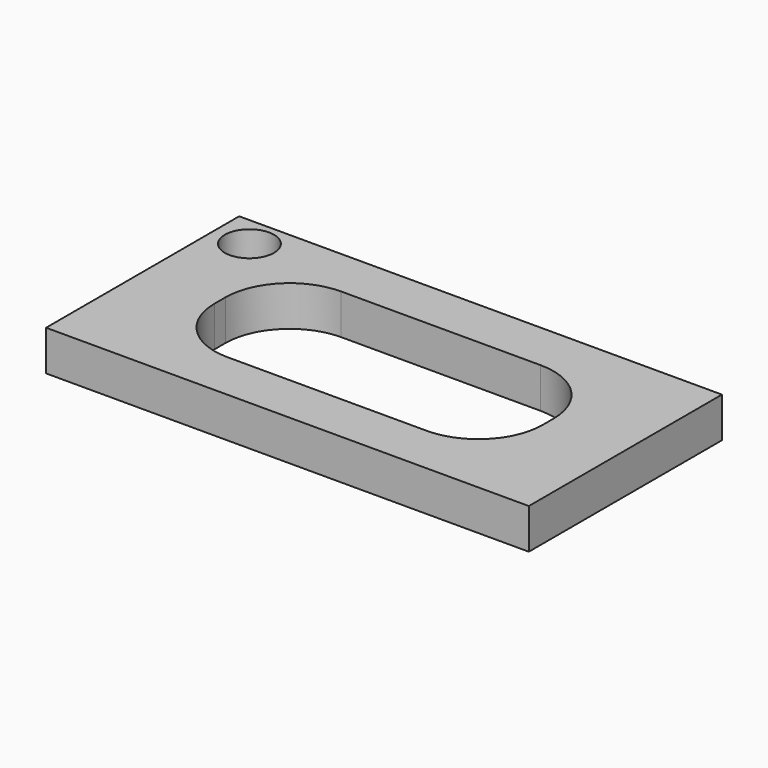
from build123d import *

# Parameters (mm, degrees)
F0_W     = 76.2
F0_H     = 38.1
F0_R     = 3.878788
F1_DEPTH = 6.35


with BuildPart() as f1:
    # F0 (on Top) → F1 (new body)
    with BuildSketch(Plane.XY):
        Rectangle(F0_W, F0_H)
        with Locations((-32.522053, 14.102482)):
            Circle(F0_R, mode=Mode.SUBTRACT)
        with BuildLine():
            Line((15.742519, -11.224424), (-15.742519, -11.224424))
            ThreePointArc((-15.742519, -11.224424), (-22.926724, -8.248629), (-25.902519, -1.064424))
            Line((-25.902519, -1.064424), (-25.902519, 1.064424))
            ThreePointArc((-25.902519, 1.064424), (-22.926724, 8.248629), (-15.742519, 11.224424))
            Line((-15.742519, 11.224424), (15.742519, 11.224424))
            ThreePointArc((15.742519, 11.224424), (22.926724, 8.248629), (25.902519, 1.064424))
            Line((25.902519, 1.064424), (25.902519, -1.064424))
            ThreePointArc((25.902519, -1.064424), (22.926724, -8.248629), (15.742519, -11.224424))
        make_face(mode=Mode.SUBTRACT)
    extrude(amount=F1_DEPTH)


solid = f1.part
